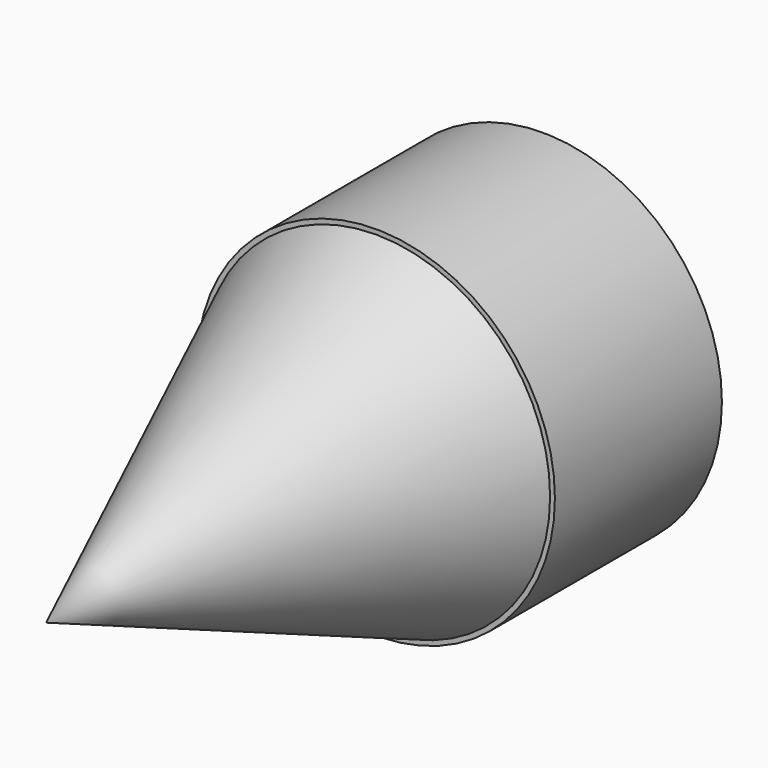
from build123d import *

# Parameters (mm, degrees)
F0_R     = 21.435
F0_R_2   = 19.08
F1_DEPTH = 25


with BuildPart() as f1:
    # F0 (on Front) → F1 (new body)
    with BuildSketch(Plane.XZ):
        Circle(F0_R)
        Circle(F0_R_2, mode=Mode.SUBTRACT)
    extrude(amount=F1_DEPTH)


with BuildPart() as f3:
    # F2 (on Right) → F3 (revolve)
    with BuildSketch(Plane.YZ):
        Polygon((-24.625003, 0), (-24.375001, 21.122396), (-74.375004, 0), align=None)
    revolve(axis=Axis((0, -4.4375, 0), (0, -1, 0)))


solid = Compound([f1.part, f3.part])
